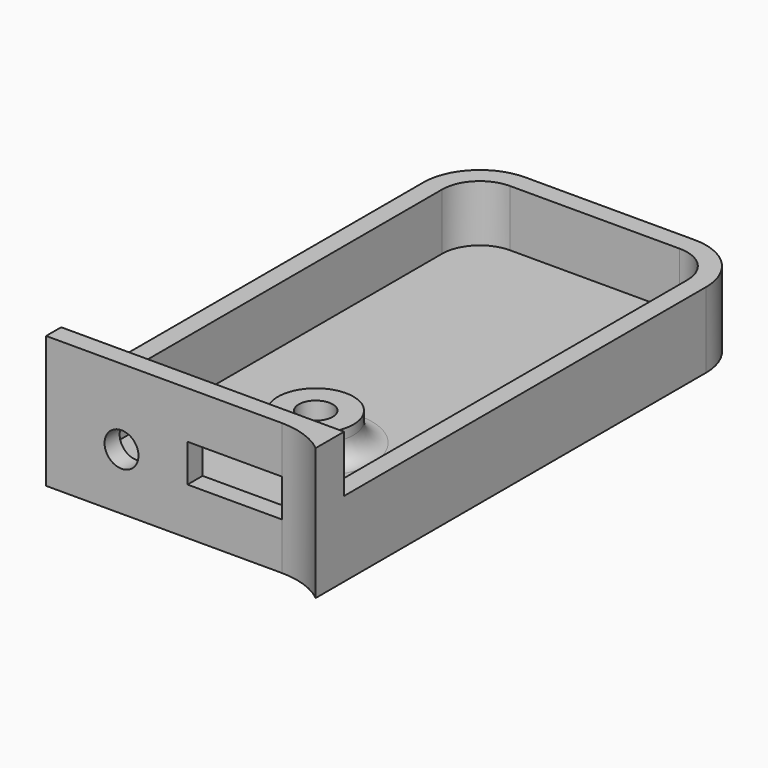
from build123d import *

# Parameters (mm, degrees)
PAD014_DEPTH    = 14
POCKET017_DEPTH = 12
POCKET018_DEPTH = 6
SKETCH064_R     = 4
PAD015_DEPTH    = 3
SKETCH065_R     = 1.8
POCKET019_DEPTH = 5.001
SKETCH070_R     = 1.8
SKETCH070_W     = 10
SKETCH070_H     = 4
POCKET022_DEPTH = 2
SKETCH071_R     = 3.2
POCKET023_DEPTH = 2
FILLET003_R     = 2


with BuildPart() as part:
    # Sketch059 → Pad014 (new body)
    with BuildSketch(Plane.XY):
        with BuildLine():
            Line((61, 137.4), (79, 137.4))
            ThreePointArc((85, 131.4), (83.242641, 135.642641), (79, 137.4))
            Line((85, 131.4), (85, 79.644998))
            ThreePointArc((85, 79.644998), (82.64953, 80.948509), (80, 81.4))
            Line((80, 81.4), (55, 81.4))
            Line((55, 81.4), (55, 131.4))
            ThreePointArc((61, 137.4), (56.757359, 135.642641), (55, 131.4))
        make_face()
    extrude(amount=PAD014_DEPTH)

    # Sketch060 (on DatumPlane) → Pocket017 (cut)
    with BuildSketch(Plane.XY.offset(2)):
        with BuildLine():
            Line((61, 135.4), (79, 135.4))
            ThreePointArc((83, 131.4), (81.828427, 134.228427), (79, 135.4))
            Line((83, 131.4), (83, 83.4))
            Line((83, 83.4), (57, 83.4))
            Line((57, 83.4), (57, 131.4))
            ThreePointArc((61, 135.4), (58.171573, 134.228427), (57, 131.4))
        make_face()
    extrude(amount=POCKET017_DEPTH, mode=Mode.SUBTRACT)

    # Sketch063 (on Face5 of Pocket017) → Pocket018 (cut)
    with BuildSketch(Plane.XY.offset(14)):
        with BuildLine():
            Line((61, 137.4), (79, 137.4))
            ThreePointArc((85, 131.4), (83.242641, 135.642641), (79, 137.4))
            Line((85, 131.4), (85, 83.4))
            Line((85, 83.4), (55, 83.4))
            Line((55, 83.4), (55, 131.4))
            ThreePointArc((61, 137.4), (56.757359, 135.642641), (55, 131.4))
        make_face()
    extrude(amount=-POCKET018_DEPTH, mode=Mode.SUBTRACT)

    # Sketch064 (on Face20 of Pocket018) → Pad015 (join)
    with BuildSketch(Plane.XY.offset(2)):
        with Locations((70, 98.4)):
            Circle(SKETCH064_R)
    extrude(amount=PAD015_DEPTH)

    # Sketch065 (on Face22 of Pad015) → Pocket019 (cut, through all)
    with BuildSketch(Plane.XY.offset(5)):
        with Locations((70, 98.4)):
            Circle(SKETCH065_R)
    extrude(amount=-POCKET019_DEPTH, mode=Mode.SUBTRACT)

    # Sketch070 → Pocket022 (cut)
    with BuildSketch(Plane.XZ.offset(-81.4)):
        with Locations((63, 6)):
            Circle(SKETCH070_R)
        with Locations((75, 7)):
            Rectangle(SKETCH070_W, SKETCH070_H)
    extrude(amount=-POCKET022_DEPTH, mode=Mode.SUBTRACT)

    # Sketch071 (on Face2 of Pocket022) → Pocket023 (cut)
    with BuildSketch(Plane(origin=(0, 0, 0), x_dir=(1, 0, 0), z_dir=(0, 0, -1))):
        with Locations((70, -98.4)):
            Circle(SKETCH071_R)
    extrude(amount=-POCKET023_DEPTH, mode=Mode.SUBTRACT)

    # Fillet003
    fillet003_edges = [part.edges().sort_by_distance(p)[0] for p in [
        (66, 98.4, 2),
    ]]
    fillet(fillet003_edges, radius=FILLET003_R)


solid = part.part
